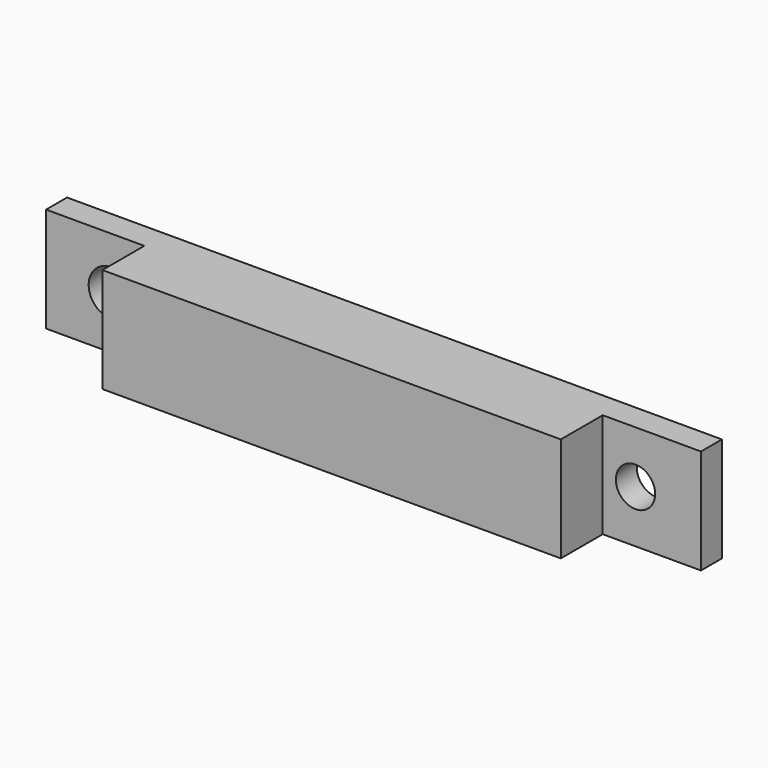
from build123d import *

# Parameters (mm, degrees)
PAD_DEPTH     = 8
SKETCH001_R   = 1.75
SKETCH001_R_2 = 1.5
POCKET_DEPTH  = 5


with BuildPart() as part:
    # Sketch → Pad (new body)
    with BuildSketch(Plane.XY):
        Polygon((-25, 6), (25, 6), (25, 4), (17.5, 4), (17.5, 0), (-17.5, 0), (-17.5, 4), (-25, 4), align=None)
    extrude(amount=PAD_DEPTH)

    # Sketch001 (on Face1 of Pad) → Pocket (cut)
    with BuildSketch(Plane(origin=(0, 6, 0), x_dir=(-1, 0, 0), z_dir=(0, 1, 0))):
        with Locations((20, 4)):
            Circle(SKETCH001_R)
        with Locations((-20, 4)):
            Circle(SKETCH001_R_2)
    extrude(amount=-POCKET_DEPTH, mode=Mode.SUBTRACT)


solid = part.part
